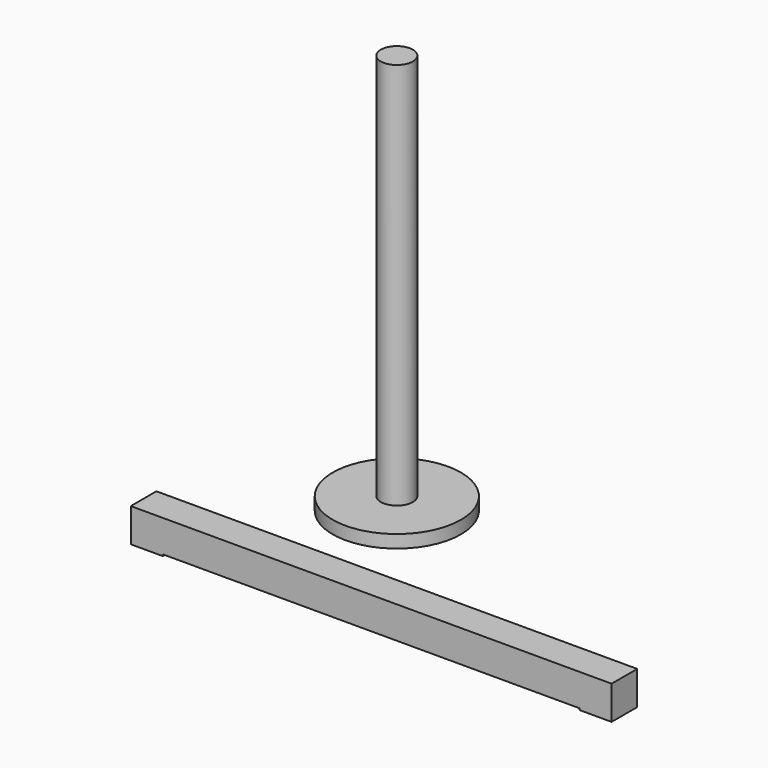
from build123d import *

# Parameters (mm, degrees)
F0_R     = 200
F0_R_2   = 50
F1_DEPTH = 40
F2_DEPTH = 1250
F3_W     = 1500
F3_H     = 100
F4_DEPTH = 100
F5_W     = 100
F5_H     = 100
F6_DEPTH = 5


with BuildPart() as f1:
    # F0 (on Top) → F1 (new body)
    with BuildSketch(Plane.XY):
        Circle(F0_R)
        Circle(F0_R_2, mode=Mode.SUBTRACT)
        Circle(F0_R_2)
    extrude(amount=F1_DEPTH)

    # F0 (on Top) → F2 (join)
    with BuildSketch(Plane.XY):
        Circle(F0_R_2)
    extrude(amount=F2_DEPTH)


with BuildPart() as f4:
    # F3 (on Front) → F4 (new body)
    with BuildSketch(Plane.XZ):
        with Locations((0, -240.531479)):
            Rectangle(F3_W, F3_H)
    extrude(amount=F4_DEPTH)

    # F5 (on face) → F6 (join)
    with BuildSketch(Plane(origin=(0, 0, -290.531479), x_dir=(1, 0, 0), z_dir=(0, 0, -1))):
        with Locations((-700, 50)):
            Rectangle(F5_W, F5_H)
        with Locations((700, 50)):
            Rectangle(F5_W, F5_H)
    extrude(amount=F6_DEPTH)


solid = Compound([f1.part, f4.part])
